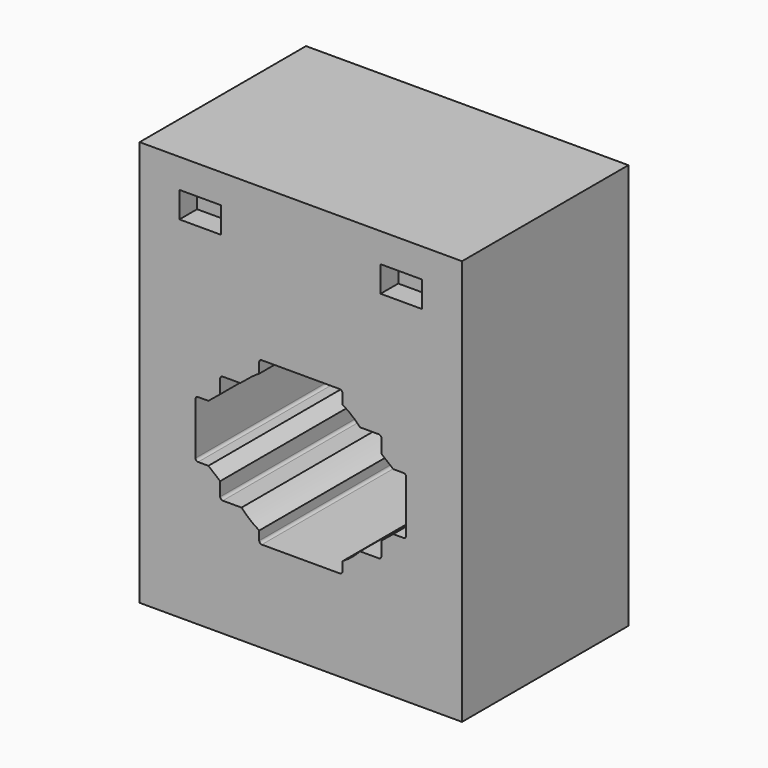
from build123d import *

# Parameters (mm, degrees)
F0_W     = 62
F0_H     = 78
F0_W_2   = 8
F0_H_2   = 5
F1_DEPTH = 20
F2_W     = 54.3611720204
F2_H     = 31.5054729581
F3_DEPTH = 15


with BuildPart() as f1:
    # F0 (on Front) → F1 (new body, symmetric)
    with BuildSketch(Plane.XZ):
        Rectangle(F0_W, F0_H)
        with BuildLine():
            ThreePointArc((15.5, -16), (15.3535533906, -16.3535533906), (15, -16.5))
            Line((15, -16.5), (11.401754251, -16.5))
            ThreePointArc((11.401754251, -16.5), (9.7996656706, -18.0090196413), (8, -19.2759180474))
            Line((8, -19.2759180474), (8, -21))
            ThreePointArc((8, -21), (7.8535533906, -21.3535533906), (7.5, -21.5))
            Line((7.5, -21.5), (-7.5, -21.5))
            ThreePointArc((-7.5, -21.5), (-7.8535533906, -21.3535533906), (-8, -21))
            Line((-8, -21), (-8, -19.2759180474))
            ThreePointArc((-8, -19.2759180474), (-9.7996656706, -18.0090196413), (-11.401754251, -16.5))
            Line((-11.401754251, -16.5), (-15, -16.5))
            ThreePointArc((-15, -16.5), (-15.3535533906, -16.3535533906), (-15.5, -16))
            Line((-15.5, -16), (-15.5, -13.3574017484))
            Line((-15.5, -13.3574017484), (-17.7761566393, -11.5))
            Line((-17.7761566393, -11.5), (-19.75, -11.5))
            ThreePointArc((-19.75, -11.5), (-20.1035533906, -11.3535533906), (-20.25, -11))
            Line((-20.25, -11), (-20.25, -1))
            ThreePointArc((-20.25, -1), (-20.1035533906, -0.6464466094), (-19.75, -0.5))
            Line((-19.75, -0.5), (-17.7761566393, -0.5))
            Line((-17.7761566393, -0.5), (-15.5, 1.3574017484))
            Line((-15.5, 1.3574017484), (-15.5, 4))
            ThreePointArc((-15.5, 4), (-15.3535533906, 4.3535533906), (-15, 4.5))
            Line((-15, 4.5), (-11.6488967689, 4.5))
            Line((-11.6488967689, 4.5), (-9.7996656706, 6.0090196413))
            ThreePointArc((-9.7996656706, 6.0090196413), (-8.9223473587, 6.6744513732), (-8, 7.2759180474))
            Line((-8, 7.2759180474), (-8, 9.2156053036))
            ThreePointArc((-8, 9.2156053036), (-7.8535533906, 9.5691586942), (-7.5, 9.7156053036))
            Line((-7.5, 9.7156053036), (7.5, 9.7156053036))
            ThreePointArc((7.5, 9.7156053036), (7.8535533906, 9.5691586942), (8, 9.2156053036))
            Line((8, 9.2156053036), (8, 7.2759180474))
            ThreePointArc((8, 7.2759180474), (9.7996656706, 6.0090196413), (11.401754251, 4.5))
            Line((11.401754251, 4.5), (15, 4.5))
            ThreePointArc((15, 4.5), (15.3535533906, 4.3535533906), (15.5, 4))
            Line((15.5, 4), (15.5, 1.3574017484))
            Line((15.5, 1.3574017484), (17.7761566393, -0.5))
            Line((17.7761566393, -0.5), (19.75, -0.5))
            ThreePointArc((19.75, -0.5), (20.1035533906, -0.6464466094), (20.25, -1))
            Line((20.25, -1), (20.25, -11))
            ThreePointArc((20.25, -11), (20.1035533906, -11.3535533906), (19.75, -11.5))
            Line((19.75, -11.5), (17.7761566393, -11.5))
            Line((17.7761566393, -11.5), (15.5, -13.3574017484))
            Line((15.5, -13.3574017484), (15.5, -16))
        make_face(mode=Mode.SUBTRACT)
        with Locations((-19.3427710384, 30.9041780978)):
            Rectangle(F0_W_2, F0_H_2, mode=Mode.SUBTRACT)
        with Locations((19.3427710384, 30.9041780978)):
            Rectangle(F0_W_2, F0_H_2, mode=Mode.SUBTRACT)
    extrude(amount=F1_DEPTH, both=True)

    # F2 (on face) → F3 (join)
    with BuildSketch(Plane.XY.offset(39)):
        Rectangle(F2_W, F2_H)
    extrude(amount=-F3_DEPTH)


solid = f1.part
